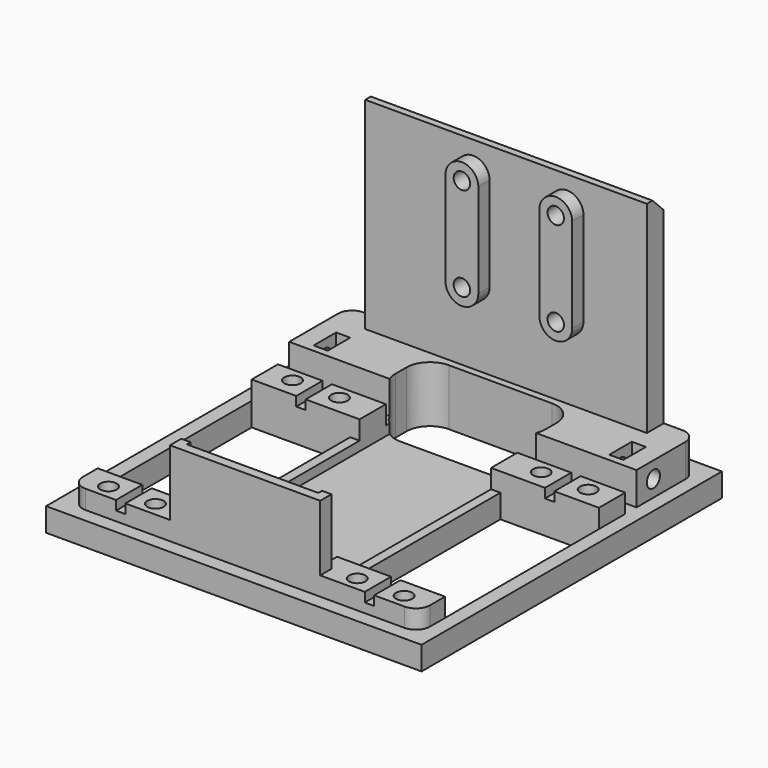
from build123d import *

# Parameters (mm, degrees)
SKETCH018_W             = 10
SKETCH018_H             = 4
PAD013_DEPTH            = 10
BOX035_W                = 6
BOX035_H                = 38
BOX035_DEPTH            = 68
CYLINDER040_R           = 1.75
CYLINDER040_DEPTH       = 31
CYLINDER040_PITCH_ANGLE = 90
CYLINDER041_R           = 1.75
CYLINDER041_DEPTH       = 31
CYLINDER041_PITCH_ANGLE = 90
CYLINDER_R              = 1.75
CYLINDER_DEPTH          = 31
CYLINDER_PITCH_ANGLE    = 90
CYLINDER053_R           = 1.75
CYLINDER053_DEPTH       = 31
CYLINDER053_PITCH_ANGLE = 90
PAD_DEPTH               = 5
BOX037_W                = 61
BOX037_H                = 28
BOX037_DEPTH            = 44
BOX036_W                = 13
BOX036_H                = 32
BOX036_DEPTH            = 17
FILLET018002_R          = 5
BOX033_W                = 4.5
BOX033_H                = 60
BOX033_DEPTH            = 54
CYLINDER013_R           = 1.75
CYLINDER013_DEPTH       = 31
CYLINDER013_ROLL_ANGLE  = 90
CYLINDER012_R           = 1.75
CYLINDER012_DEPTH       = 31
CYLINDER012_ROLL_ANGLE  = 90
BOX018_W                = 6
BOX018_H                = 3
BOX018_DEPTH            = 12
BOX016_W                = 6
BOX016_H                = 3
BOX016_DEPTH            = 12
BOX017_W                = 16
BOX017_H                = 74
BOX017_DEPTH            = 12
BOX015_W                = 41
BOX015_H                = 21
BOX015_DEPTH            = 43
BOX014_W                = 41
BOX014_H                = 21
BOX014_DEPTH            = 43
CYLINDER008_R           = 1.75
CYLINDER008_DEPTH       = 21.5
CYLINDER008_PITCH_ANGLE = 90
CYLINDER009_R           = 3
CYLINDER009_DEPTH       = 21.5
CYLINDER009_PITCH_ANGLE = 90
FUSION009_PITCH_ANGLE   = 90
FUSION010_PITCH_ANGLE   = 90
FUSION008_PITCH_ANGLE   = 90
FUSION005_PITCH_ANGLE   = 90
BOX012_W                = 70
BOX012_H                = 2
BOX012_DEPTH            = 9
BOX011_W                = 7
BOX011_H                = 74
BOX011_DEPTH            = 9
BOX010_W                = 7
BOX010_H                = 74
BOX010_DEPTH            = 9
BOX009_W                = 80
BOX009_H                = 80
BOX009_DEPTH            = 5
BOX032_W                = 3
BOX032_H                = 32
BOX032_DEPTH            = 20
CHAMFER003_SIZE         = 3
FILLET018013_R          = 3
CUT113_PLACEMENT_ANGLE  = -90


with BuildPart() as pad013:
    # Sketch018 → Pad013 (new body)
    with BuildSketch(Plane(origin=(70, 275, 66), x_dir=(0, 1, 0), z_dir=(0, 0, -1))):
        with Locations((-265.5, -19)):
            Rectangle(SKETCH018_W, SKETCH018_H)
        with Locations((-212.5, -19)):
            Rectangle(SKETCH018_W, SKETCH018_H)
        with Locations((-265.5, -68)):
            Rectangle(SKETCH018_W, SKETCH018_H)
        with Locations((-212.5, -68)):
            Rectangle(SKETCH018_W, SKETCH018_H)
    extrude(amount=PAD013_DEPTH)


with BuildPart() as cube035:
    # Box035 → Box035 (new body)
    with BuildSketch(Plane(origin=(-23.5, 17, 68), x_dir=(1, 0, 0), z_dir=(0, 0, 1))):
        with Locations((3, 19)):
            Rectangle(BOX035_W, BOX035_H)
    extrude(amount=BOX035_DEPTH)


with BuildPart() as cylinder094:
    # Cylinder040 → Cylinder040 (new body)
    with BuildSketch(Plane.XY):
        Circle(CYLINDER040_R)
    extrude(amount=CYLINDER040_DEPTH)


with BuildPart() as cylinder094_1:
    # Cylinder040 pitch: moved
    add(cylinder094.part.rotate(Axis((0, 0, 0), (0, 1, 0)), CYLINDER040_PITCH_ANGLE))


with BuildPart() as cylinder094_2:
    # Cylinder040 placement: moved
    add(cylinder094_1.part.moved(Location((-49.5, 49, 91.5))))


with BuildPart() as cylinder095:
    # Cylinder041 → Cylinder041 (new body)
    with BuildSketch(Plane.XY):
        Circle(CYLINDER041_R)
    extrude(amount=CYLINDER041_DEPTH)


with BuildPart() as cylinder095_1:
    # Cylinder041 pitch: moved
    add(cylinder095.part.rotate(Axis((0, 0, 0), (0, 1, 0)), CYLINDER041_PITCH_ANGLE))


with BuildPart() as cylinder095_2:
    # Cylinder041 placement: moved
    add(cylinder095_1.part.moved(Location((-49.5, 49, 111.5))))


with BuildPart() as cylinder093:
    # Cylinder → Cylinder (new body)
    with BuildSketch(Plane.XY):
        Circle(CYLINDER_R)
    extrude(amount=CYLINDER_DEPTH)


with BuildPart() as cylinder093_1:
    # Cylinder pitch: moved
    add(cylinder093.part.rotate(Axis((0, 0, 0), (0, 1, 0)), CYLINDER_PITCH_ANGLE))


with BuildPart() as cylinder093_2:
    # Cylinder placement: moved
    add(cylinder093_1.part.moved(Location((-49.5, 29, 111.5))))


with BuildPart() as fusion038:
    # Cylinder053 → Cylinder053 (new body)
    with BuildSketch(Plane.XY):
        Circle(CYLINDER053_R)
    extrude(amount=CYLINDER053_DEPTH)


with BuildPart() as fusion038_1:
    # Cylinder053 pitch: moved
    add(fusion038.part.rotate(Axis((0, 0, 0), (0, 1, 0)), CYLINDER053_PITCH_ANGLE))


with BuildPart() as fusion038_2:
    # Cylinder053 placement: moved
    add(fusion038_1.part.moved(Location((-49.5, 29, 91.5))))

    # Fusion038: union Cylinder094, Cylinder095, Cylinder093
    add(cylinder094_2.part)
    add(cylinder095_2.part)
    add(cylinder093_2.part)


with BuildPart() as fusion038_3:
    # Fusion038 placement: moved
    add(fusion038_2.part.moved(Location((14, 0, 0))))


with BuildPart() as pad:
    # Sketch → Pad (new body)
    with BuildSketch(Plane(origin=(-22, 0, 0), x_dir=(0, -1, 0), z_dir=(-1, 0, 0))):
        with BuildLine():
            ThreePointArc((-45.5, 111.5), (-49, 115), (-52.5, 111.5))
            Line((-52.5, 111.5), (-52.5, 91.5))
            ThreePointArc((-52.5, 91.5), (-49, 88), (-45.5, 91.500001))
            Line((-45.5, 111.5), (-45.5, 91.500001))
        make_face()
    extrude(amount=-PAD_DEPTH)


with BuildPart() as clone_of_pad:
    # Clone base: copy of Pad
    add(pad.part)


with BuildPart() as clone_of_pad_1:
    # Clone placement: moved
    add(clone_of_pad.part.moved(Location((0, -20, 0))))


with BuildPart() as fusion039:
    # Fusion039 base: copy of Pad
    add(pad.part)

    # Fusion039: union Clone of Pad
    add(clone_of_pad_1.part)


with BuildPart() as fusion039_1:
    # Fusion039 placement: moved
    add(fusion039.part.moved(Location((4.5, 0, 0))))


with BuildPart() as cube036:
    # Box037 → Box037 (new body)
    with BuildSketch(Plane(origin=(-9, 22, 66), x_dir=(1, 0, 0), z_dir=(0, 0, 1))):
        with Locations((30.5, 14)):
            Rectangle(BOX037_W, BOX037_H)
    extrude(amount=BOX037_DEPTH)


with BuildPart() as fillet018002:
    # Box036 → Box036 (new body)
    with BuildSketch(Plane(origin=(-14, 20, 62), x_dir=(1, 0, 0), z_dir=(0, 0, 1))):
        with Locations((6.5, 16)):
            Rectangle(BOX036_W, BOX036_H)
    extrude(amount=BOX036_DEPTH)

    # Fillet018002
    fillet018002_edges = [fillet018002.edges().sort_by_distance(p)[0] for p in [
        (-14, 20, 70.5),
        (-14, 52, 70.5),
        (-1, 20, 70.5),
        (-1, 52, 70.5),
    ]]
    fillet(fillet018002_edges, radius=FILLET018002_R)


with BuildPart() as cube033:
    # Box033 → Box033 (new body)
    with BuildSketch(Plane(origin=(-20, 6, 64), x_dir=(1, 0, 0), z_dir=(0, 0, 1))):
        with Locations((2.25, 30)):
            Rectangle(BOX033_W, BOX033_H)
    extrude(amount=BOX033_DEPTH)


with BuildPart() as cylinder001:
    # Cylinder013 → Cylinder013 (new body)
    with BuildSketch(Plane.XY):
        Circle(CYLINDER013_R)
    extrude(amount=CYLINDER013_DEPTH)


with BuildPart() as cylinder001_1:
    # Cylinder013 roll: moved
    add(cylinder001.part.rotate(Axis((0, 0, 0), (1, 0, 0)), CYLINDER013_ROLL_ANGLE))


with BuildPart() as cylinder001_2:
    # Cylinder013 placement: moved
    add(cylinder001_1.part.moved(Location((-8.5, 11, 71.5))))


with BuildPart() as cylinder030:
    # Cylinder012 → Cylinder012 (new body)
    with BuildSketch(Plane.XY):
        Circle(CYLINDER012_R)
    extrude(amount=CYLINDER012_DEPTH)


with BuildPart() as cylinder030_1:
    # Cylinder012 roll: moved
    add(cylinder030.part.rotate(Axis((0, 0, 0), (1, 0, 0)), CYLINDER012_ROLL_ANGLE))


with BuildPart() as cylinder030_2:
    # Cylinder012 placement: moved
    add(cylinder030_1.part.moved(Location((-8.5, 92, 71.5))))


with BuildPart() as cube018:
    # Box018 → Box018 (new body)
    with BuildSketch(Plane(origin=(-11.5, 66, 69), x_dir=(1, 0, 0), z_dir=(0, 0, 1))):
        with Locations((3, 1.5)):
            Rectangle(BOX018_W, BOX018_H)
    extrude(amount=BOX018_DEPTH)


with BuildPart() as cube016:
    # Box016 → Box016 (new body)
    with BuildSketch(Plane(origin=(-11.5, 3, 69), x_dir=(1, 0, 0), z_dir=(0, 0, 1))):
        with Locations((3, 1.5)):
            Rectangle(BOX016_W, BOX016_H)
    extrude(amount=BOX016_DEPTH)


with BuildPart() as cube017:
    # Box017 → Box017 (new body)
    with BuildSketch(Plane(origin=(-20, -1, 63), x_dir=(1, 0, 0), z_dir=(0, 0, 1))):
        with Locations((8, 37)):
            Rectangle(BOX017_W, BOX017_H)
    extrude(amount=BOX017_DEPTH)


with BuildPart() as cube015:
    # Box015 → Box015 (new body)
    with BuildSketch(Plane(origin=(6, 52, 59), x_dir=(1, 0, 0), z_dir=(0, 0, 1))):
        with Locations((20.5, 10.5)):
            Rectangle(BOX015_W, BOX015_H)
    extrude(amount=BOX015_DEPTH)


with BuildPart() as cube014:
    # Box014 → Box014 (new body)
    with BuildSketch(Plane(origin=(6, -1, 59), x_dir=(1, 0, 0), z_dir=(0, 0, 1))):
        with Locations((20.5, 10.5)):
            Rectangle(BOX014_W, BOX014_H)
    extrude(amount=BOX014_DEPTH)


with BuildPart() as joint_d010:
    # Cylinder008 → Cylinder008 (new body)
    with BuildSketch(Plane.XY):
        Circle(CYLINDER008_R)
    extrude(amount=CYLINDER008_DEPTH)


with BuildPart() as joint_d010_1:
    # Cylinder008 pitch: moved
    add(joint_d010.part.rotate(Axis((0, 0, 0), (0, 1, 0)), CYLINDER008_PITCH_ANGLE))


with BuildPart() as joint_d010_2:
    # Cylinder008 placement: moved
    add(joint_d010_1.part.moved(Location((16, -24.5, 7))))


with BuildPart() as joint_d011:
    # Cylinder009 → Cylinder009 (new body)
    with BuildSketch(Plane.XY):
        Circle(CYLINDER009_R)
    extrude(amount=CYLINDER009_DEPTH)


with BuildPart() as joint_d011_1:
    # Cylinder009 pitch: moved
    add(joint_d011.part.rotate(Axis((0, 0, 0), (0, 1, 0)), CYLINDER009_PITCH_ANGLE))


with BuildPart() as joint_d011_2:
    # Cylinder009 placement: moved
    add(joint_d011_1.part.moved(Location((32, -24.5, 7))))


with BuildPart() as fusion009:
    # Fusion009 base: copy of Joint-D011
    add(joint_d011_2.part)

    # Fusion009: union Joint-D010
    add(joint_d010_2.part)


with BuildPart() as fusion009_1:
    # Fusion009 pitch: moved
    add(fusion009.part.rotate(Axis((0, 0, 0), (0, 1, 0)), FUSION009_PITCH_ANGLE))


with BuildPart() as fusion009_2:
    # Fusion009 placement: moved
    add(fusion009_1.part.moved(Location((-5, 39, 98))))


with BuildPart() as fusion010:
    # Fusion010 base: copy of Joint-D011
    add(joint_d011_2.part)

    # Fusion010: union Joint-D010
    add(joint_d010_2.part)


with BuildPart() as fusion010_1:
    # Fusion010 pitch: moved
    add(fusion010.part.rotate(Axis((0, 0, 0), (0, 1, 0)), FUSION010_PITCH_ANGLE))


with BuildPart() as fusion010_2:
    # Fusion010 placement: moved
    add(fusion010_1.part.moved(Location((-5, 29, 98))))


with BuildPart() as fusion008:
    # Fusion008 base: copy of Joint-D011
    add(joint_d011_2.part)

    # Fusion008: union Joint-D010
    add(joint_d010_2.part)


with BuildPart() as fusion008_1:
    # Fusion008 pitch: moved
    add(fusion008.part.rotate(Axis((0, 0, 0), (0, 1, 0)), FUSION008_PITCH_ANGLE))


with BuildPart() as fusion008_2:
    # Fusion008 placement: moved
    add(fusion008_1.part.moved(Location((44, 29, 98))))


with BuildPart() as fusion005:
    # Fusion005 base: copy of Joint-D011
    add(joint_d011_2.part)

    # Fusion005: union Joint-D010
    add(joint_d010_2.part)


with BuildPart() as fusion005_1:
    # Fusion005 pitch: moved
    add(fusion005.part.rotate(Axis((0, 0, 0), (0, 1, 0)), FUSION005_PITCH_ANGLE))


with BuildPart() as fusion005_2:
    # Fusion005 placement: moved
    add(fusion005_1.part.moved(Location((44, 39, 98))))


with BuildPart() as cube012:
    # Box012 → Box012 (new body)
    with BuildSketch(Plane(origin=(-6, 8.5, 70), x_dir=(1, 0, 0), z_dir=(0, 0, 1))):
        with Locations((35, 1)):
            Rectangle(BOX012_W, BOX012_H)
    extrude(amount=BOX012_DEPTH)


with BuildPart() as fusion011:
    # Fusion011 base: copy of Cube012
    add(cube012.part)

    # Fusion011: union Fusion009, Fusion010, Fusion008, Fusion005
    add(fusion009_2.part)
    add(fusion010_2.part)
    add(fusion008_2.part)
    add(fusion005_2.part)


with BuildPart() as fusion012:
    # Fusion012 base: copy of Cube012
    add(cube012.part)

    # Fusion012: union Fusion009, Fusion010, Fusion008, Fusion005
    add(fusion009_2.part)
    add(fusion010_2.part)
    add(fusion008_2.part)
    add(fusion005_2.part)


with BuildPart() as fusion012_1:
    # Fusion012 placement: moved
    add(fusion012.part.moved(Location((0, 53, 0))))


with BuildPart() as cube011:
    # Box011 → Box011 (new body)
    with BuildSketch(Plane(origin=(47, -1, 63), x_dir=(1, 0, 0), z_dir=(0, 0, 1))):
        with Locations((3.5, 37)):
            Rectangle(BOX011_W, BOX011_H)
    extrude(amount=BOX011_DEPTH)


with BuildPart() as cube010:
    # Box010 → Box010 (new body)
    with BuildSketch(Plane(origin=(-1, -1, 63), x_dir=(1, 0, 0), z_dir=(0, 0, 1))):
        with Locations((3.5, 37)):
            Rectangle(BOX010_W, BOX010_H)
    extrude(amount=BOX010_DEPTH)


with BuildPart() as cut050:
    # Box009 → Box009 (new body)
    with BuildSketch(Plane(origin=(-23, -4, 63), x_dir=(1, 0, 0), z_dir=(0, 0, 1))):
        with Locations((40, 40)):
            Rectangle(BOX009_W, BOX009_H)
    extrude(amount=BOX009_DEPTH)

    # Fusion013: union Cube011, Cube010
    add(cube011.part)
    add(cube010.part)

    # Cut018: cut Fusion012
    add(fusion012_1.part, mode=Mode.SUBTRACT)

    # Cut019: cut Fusion011
    add(fusion011.part, mode=Mode.SUBTRACT)

    # Cut020: cut Cube014
    add(cube014.part, mode=Mode.SUBTRACT)

    # Cut021: cut Cube015
    add(cube015.part, mode=Mode.SUBTRACT)

    # Fusion014: union Cube017
    add(cube017.part)

    # Cut022: cut Cube016
    add(cube016.part, mode=Mode.SUBTRACT)

    # Cut023: cut Cube018
    add(cube018.part, mode=Mode.SUBTRACT)

    # Cut024: cut Cylinder030
    add(cylinder030_2.part, mode=Mode.SUBTRACT)

    # Cut050: cut Cylinder001
    add(cylinder001_2.part, mode=Mode.SUBTRACT)


with BuildPart() as obj1:
    # Box032 → Box032 (new body)
    with BuildSketch(Plane(origin=(51, 20, 66), x_dir=(1, 0, 0), z_dir=(0, 0, 1))):
        with Locations((1.5, 16)):
            Rectangle(BOX032_W, BOX032_H)
    extrude(amount=BOX032_DEPTH)

    # Fusion025: union Cut050
    add(cut050.part)

    # Fusion026: union Cube033
    add(cube033.part)

    # Cut051: cut Fillet018002
    add(fillet018002.part, mode=Mode.SUBTRACT)

    # Cut066: cut Cube036
    add(cube036.part, mode=Mode.SUBTRACT)

    # Chamfer003
    chamfer003_edges = [obj1.edges().sort_by_distance(p)[0] for p in [
        (-20, 36, 118),
    ]]
    chamfer(chamfer003_edges, length=CHAMFER003_SIZE)

    # Fusion040: union Fusion039
    add(fusion039_1.part)

    # Cut067: cut Fusion038
    add(fusion038_3.part, mode=Mode.SUBTRACT)

    # Cut068: cut Cube035
    add(cube035.part, mode=Mode.SUBTRACT)

    # Fillet018013
    fillet018013_edges = [obj1.edges().sort_by_distance(p)[0] for p in [
        (-20, -1, 71.5),
        (-20, 73, 71.5),
        (54, -1, 70),
        (54, 73, 70),
    ]]
    fillet(fillet018013_edges, radius=FILLET018013_R)

    # Cut113: cut Pad013
    add(pad013.part, mode=Mode.SUBTRACT)


with BuildPart() as obj1_1:
    # Cut113 placement: moved
    add(obj1.part.moved(Location((-275, 70, 2))).rotate(Axis((-275, 70, 2), (0, 0, 1)), CUT113_PLACEMENT_ANGLE))


solid = obj1_1.part
